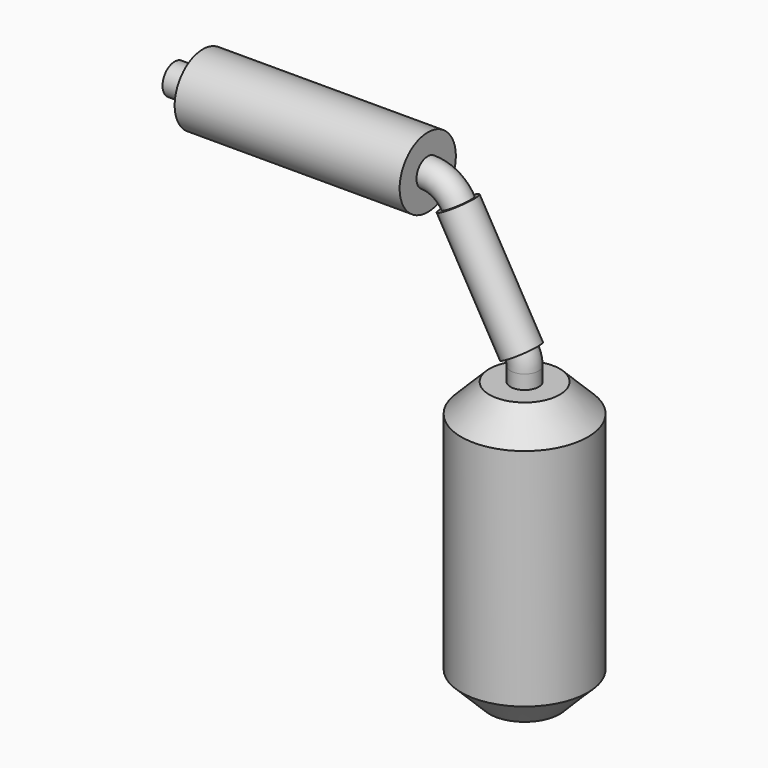
from build123d import *

# Parameters (mm, degrees)
F0_R      = 12.5
F1_DEPTH  = 80
F2_R      = 5
F3_ANGLE  = 60
F4_R      = 6.5
F5_DEPTH  = 45
F6_R      = 5.4
F7_DEPTH  = 10
F8_R      = 5
F9_ANGLE  = 30
F10_DEPTH = 5
F11_R     = 22.5
F11_R_2   = 5
F12_DEPTH = 100
F13_SIZE  = 10
F14_SIZE  = 10


with BuildPart() as f1:
    # F0 (on Right) → F1 (new body)
    with BuildSketch(Plane.YZ):
        Circle(F0_R)
    extrude(amount=F1_DEPTH)

    # F2 (on face) → F3 (revolve)
    with BuildSketch(Plane.YZ.offset(80)):
        Circle(F2_R)
    revolve(axis=Axis((80, 12.480231002, -12.5), (0, 1, 0)), revolution_arc=F3_ANGLE)

    # F4 (on face) → F5 (join)
    with BuildSketch(Plane(origin=(25.4126587737, 0, -44.0160161514), x_dir=(0.8660254038, 0, 0.5), z_dir=(0.5, 0, -0.8660254038))):
        with Locations((75.5320323028, 0)):
            Circle(F4_R)
    extrude(amount=F5_DEPTH)

    # F6 (on face) → F7 (join)
    with BuildSketch(Plane(origin=(0, 0, 0), x_dir=(0, -1, 0), z_dir=(-1, 0, 0))):
        Circle(F6_R)
    extrude(amount=F7_DEPTH)

    # F8 (on face) → F9 (revolve)
    with BuildSketch(Plane(origin=(47.9126587737, 0, -82.9871593217), x_dir=(0.8660254038, 0, 0.5), z_dir=(0.5, 0, -0.8660254038))):
        with Locations((75.5320323028, 0)):
            Circle(F8_R)
    revolve(axis=Axis((106.1030469169, 6.7506376654, -49.3909230629), (0, 1, 0)), revolution_arc=F9_ANGLE)

    # F10 (add): a face of the model
    f10_faces = [f1.faces().sort_by_distance(p)[0] for p in [
        (114.4426067022, 0, -49.3909230629),
    ]]
    extrude(f10_faces, amount=F10_DEPTH)

    # F11 (on face) → F12 (join)
    with BuildSketch(Plane(origin=(0, 0, -54.3909230629), x_dir=(1, 0, 0), z_dir=(0, 0, -1))):
        with Locations((114.4426067022, 0)):
            Circle(F11_R)
        with Locations((114.4426067022, 0)):
            Circle(F11_R_2, mode=Mode.SUBTRACT)
        with Locations((114.4426067022, 0)):
            Circle(F11_R_2)
    extrude(amount=F12_DEPTH)

    # F13
    f13_edges = [f1.edges().sort_by_distance(p)[0] for p in [
        (91.942607, 0, -54.390923),
    ]]
    chamfer(f13_edges, length=F13_SIZE)

    # F14
    f14_edges = [f1.edges().sort_by_distance(p)[0] for p in [
        (91.942607, 0, -154.390923),
    ]]
    chamfer(f14_edges, length=F14_SIZE)


solid = f1.part
